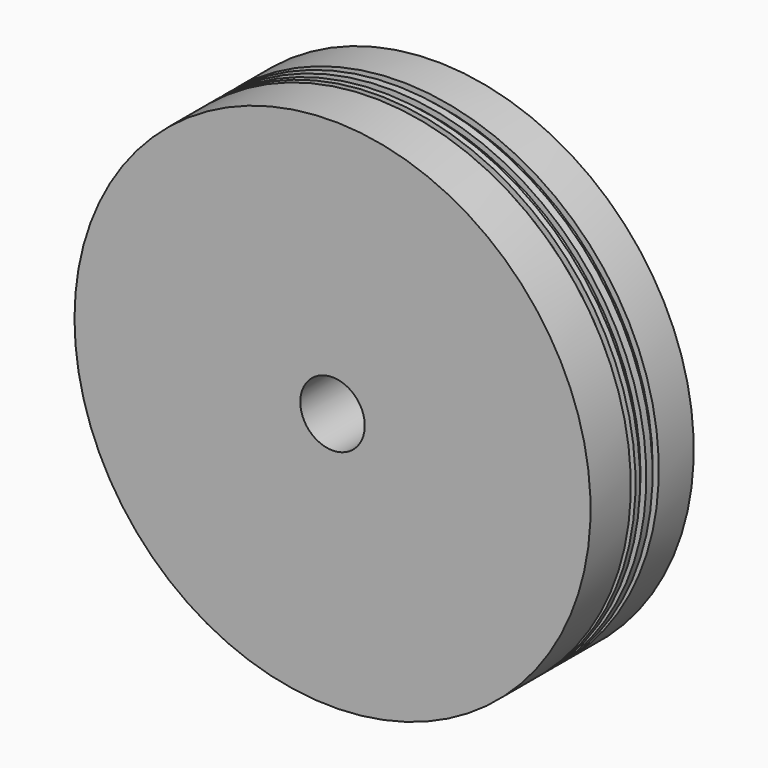
from build123d import *


with BuildPart() as f1:
    # F0 (on Top) → F1 (revolve)
    with BuildSketch(Plane.XY):
        Polygon((-50.8, 0), (-6.35, 0), (-6.35, 25.4), (-50.8, 25.4), (-50.8, 16.79492), (-49.61054, 16.79492), (-49.61054, 15.260001), (-50.8, 15.260001), (-50.8, 13.731091), (-49.665745, 13.731091), (-49.665745, 12.197614), (-50.8, 12.197614), (-50.8, 11.064528), (-49.623873, 11.064528), (-49.623873, 9.913638), (-50.8, 9.913638), align=None)
    revolve(axis=Axis((0, 12.7, 0), (0, 1, 0)))


solid = f1.part
